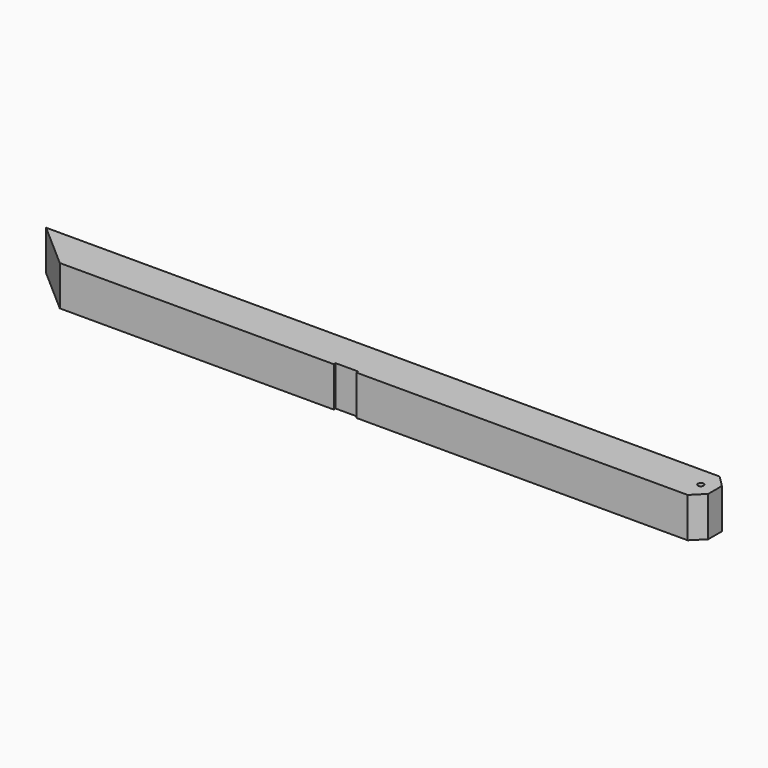
from build123d import *

# Parameters (mm, degrees)
F0_R     = 3.175
F1_DEPTH = 44.45


with BuildPart() as f1:
    # F0 (on Top) → F1 (new body)
    with BuildSketch(Plane.XY):
        Polygon((-243.91597, 26.383761), (60.88403, 26.383761), (60.88403, 28.923761), (86.28403, 28.923761), (86.28403, 26.383761), (454.58403, 26.383761), (467.28403, 39.083761), (467.28403, 58.133761), (454.58403, 70.833761), (-294.71597, 70.833761), align=None)
        with Locations((451.40903, 48.608761)):
            Circle(F0_R, mode=Mode.SUBTRACT)
    extrude(amount=F1_DEPTH)


solid = f1.part
